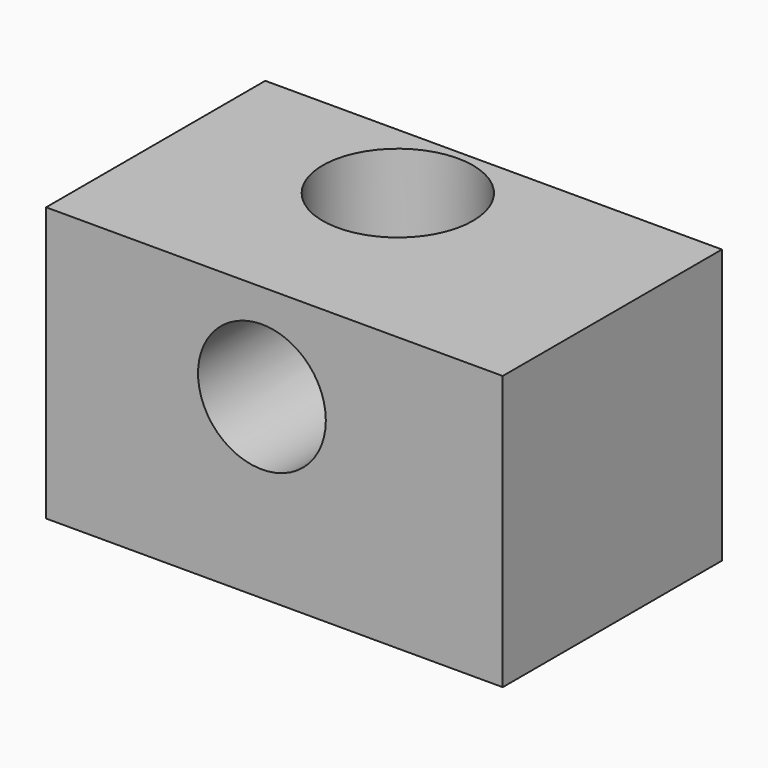
from build123d import *

# Parameters (mm, degrees)
F0_W     = 127
F0_H     = 76.2
F1_DEPTH = 76.2
F2_R     = 20.895154
F3_DEPTH = 38.1
F4_R     = 17.773402
F5_DEPTH = 50.8


with BuildPart() as f1:
    # F0 (on Front) → F1 (new body)
    with BuildSketch(Plane.XZ):
        with Locations((-18.322727, 38.1)):
            Rectangle(F0_W, F0_H)
    extrude(amount=F1_DEPTH)

    # F2 (on face) → F3 (cut)
    with BuildSketch(Plane.XY.offset(76.2)):
        with Locations((-26.344616, -23.265893)):
            Circle(F2_R)
    extrude(amount=-F3_DEPTH, mode=Mode.SUBTRACT)

    # F4 (on face) → F5 (cut)
    with BuildSketch(Plane.XZ.offset(76.2)):
        with Locations((-21.794144, 49.305573)):
            Circle(F4_R)
    extrude(amount=-F5_DEPTH, mode=Mode.SUBTRACT)


solid = f1.part
